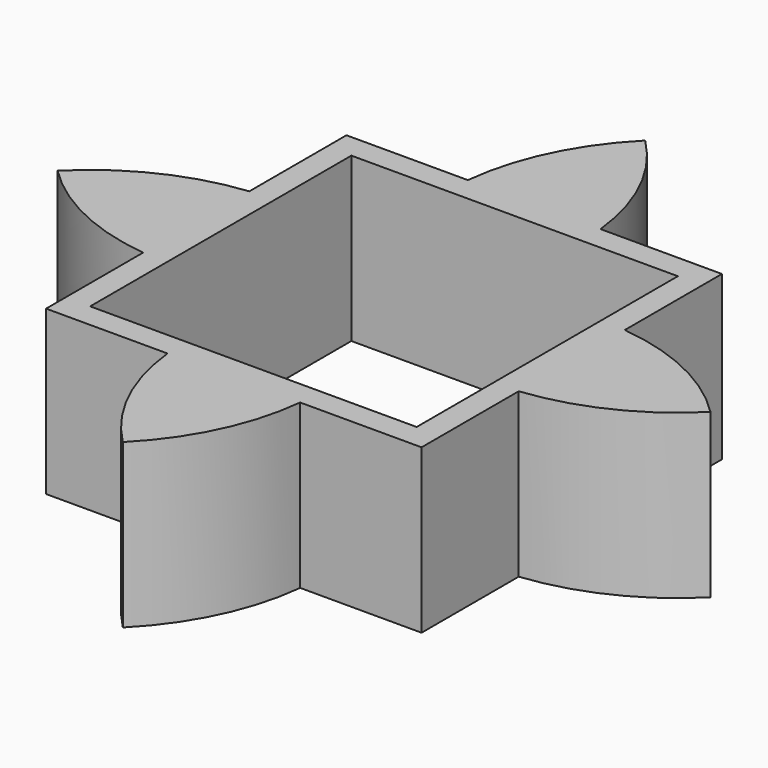
from build123d import *

# Parameters (mm, degrees)
F1_DEPTH = 25.4


with BuildPart() as f1:
    # F0 (on Top) → F1 (new body)
    with BuildSketch(Plane.XY):
        with BuildLine():
            ThreePointArc((-29.21, 10.3183972205), (-40.8894594902, 7.0098232747), (-50.8, 0))
            ThreePointArc((-50.8, 0), (-40.8894594902, -7.0098232747), (-29.21, -10.3183972205))
            Line((-29.21, -10.3183972205), (-29.21, 10.3183972205))
        make_face()
        with BuildLine():
            ThreePointArc((10.3183972205, 29.21), (7.0098232747, 40.8894594902), (0, 50.8))
            ThreePointArc((0, 50.8), (-7.0098232747, 40.8894594902), (-10.3183972205, 29.21))
            Line((-10.3183972205, 29.21), (10.3183972205, 29.21))
        make_face()
        with BuildLine():
            ThreePointArc((29.21, -10.3183972205), (40.8894594902, -7.0098232747), (50.8, 0))
            ThreePointArc((50.8, 0), (40.8894594902, 7.0098232747), (29.21, 10.3183972205))
            Line((29.21, 10.3183972205), (29.21, -10.3183972205))
        make_face()
        with BuildLine():
            ThreePointArc((-10.3183972205, -29.21), (-7.0098232747, -40.8894594902), (0, -50.8))
            ThreePointArc((0, -50.8), (7.0098232747, -40.8894594902), (10.3183972205, -29.21))
            Line((10.3183972205, -29.21), (-10.3183972205, -29.21))
        make_face()
        with BuildLine():
            ThreePointArc((-25.4, -10.5210244843), (-27.3076921796, -10.470331899), (-29.21, -10.3183972205))
            Line((-29.21, -10.3183972205), (-29.21, -29.21))
            Line((-29.21, -29.21), (-10.3183972205, -29.21))
            ThreePointArc((-10.3183972205, -29.21), (-10.470331899, -27.3076921796), (-10.5210244843, -25.4))
            Line((-10.5210244843, -25.4), (-25.4, -25.4))
            Line((-25.4, -25.4), (-25.4, -10.5210244843))
        make_face()
        with BuildLine():
            Line((-29.21, 10.3183972205), (-29.21, -10.3183972205))
            ThreePointArc((-29.21, -10.3183972205), (-27.3076921796, -10.470331899), (-25.4, -10.5210244843))
            Line((-25.4, -10.5210244843), (-25.4, 10.5210244843))
            ThreePointArc((-25.4, 10.5210244843), (-27.3076921796, 10.470331899), (-29.21, 10.3183972205))
        make_face()
        with BuildLine():
            ThreePointArc((-10.5210244843, 25.4), (-10.470331899, 27.3076921796), (-10.3183972205, 29.21))
            Line((-10.3183972205, 29.21), (-29.21, 29.21))
            Line((-29.21, 29.21), (-29.21, 10.3183972205))
            ThreePointArc((-29.21, 10.3183972205), (-27.3076921796, 10.470331899), (-25.4, 10.5210244843))
            Line((-25.4, 10.5210244843), (-25.4, 25.4))
            Line((-25.4, 25.4), (-10.5210244843, 25.4))
        make_face()
        with BuildLine():
            Line((10.3183972205, 29.21), (-10.3183972205, 29.21))
            ThreePointArc((-10.3183972205, 29.21), (-10.470331899, 27.3076921796), (-10.5210244843, 25.4))
            Line((-10.5210244843, 25.4), (10.5210244843, 25.4))
            ThreePointArc((10.5210244843, 25.4), (10.470331899, 27.3076921796), (10.3183972205, 29.21))
        make_face()
        with BuildLine():
            Line((29.21, 29.21), (10.3183972205, 29.21))
            ThreePointArc((10.3183972205, 29.21), (10.470331899, 27.3076921796), (10.5210244843, 25.4))
            Line((10.5210244843, 25.4), (25.4, 25.4))
            Line((25.4, 25.4), (25.4, 10.5210244843))
            ThreePointArc((25.4, 10.5210244843), (27.3076921796, 10.470331899), (29.21, 10.3183972205))
            Line((29.21, 10.3183972205), (29.21, 29.21))
        make_face()
        with BuildLine():
            Line((29.21, -29.21), (29.21, -10.3183972205))
            ThreePointArc((29.21, -10.3183972205), (27.3076921796, -10.470331899), (25.4, -10.5210244843))
            Line((25.4, -10.5210244843), (25.4, -25.4))
            Line((25.4, -25.4), (10.5210244843, -25.4))
            ThreePointArc((10.5210244843, -25.4), (10.470331899, -27.3076921796), (10.3183972205, -29.21))
            Line((10.3183972205, -29.21), (29.21, -29.21))
        make_face()
        with BuildLine():
            ThreePointArc((25.4, -10.5210244843), (27.3076921796, -10.470331899), (29.21, -10.3183972205))
            Line((29.21, -10.3183972205), (29.21, 10.3183972205))
            ThreePointArc((29.21, 10.3183972205), (27.3076921796, 10.470331899), (25.4, 10.5210244843))
            Line((25.4, 10.5210244843), (25.4, -10.5210244843))
        make_face()
        with BuildLine():
            Line((-10.3183972205, -29.21), (10.3183972205, -29.21))
            ThreePointArc((10.3183972205, -29.21), (10.470331899, -27.3076921796), (10.5210244843, -25.4))
            Line((10.5210244843, -25.4), (-10.5210244843, -25.4))
            ThreePointArc((-10.5210244843, -25.4), (-10.470331899, -27.3076921796), (-10.3183972205, -29.21))
        make_face()
    extrude(amount=F1_DEPTH)


solid = f1.part
